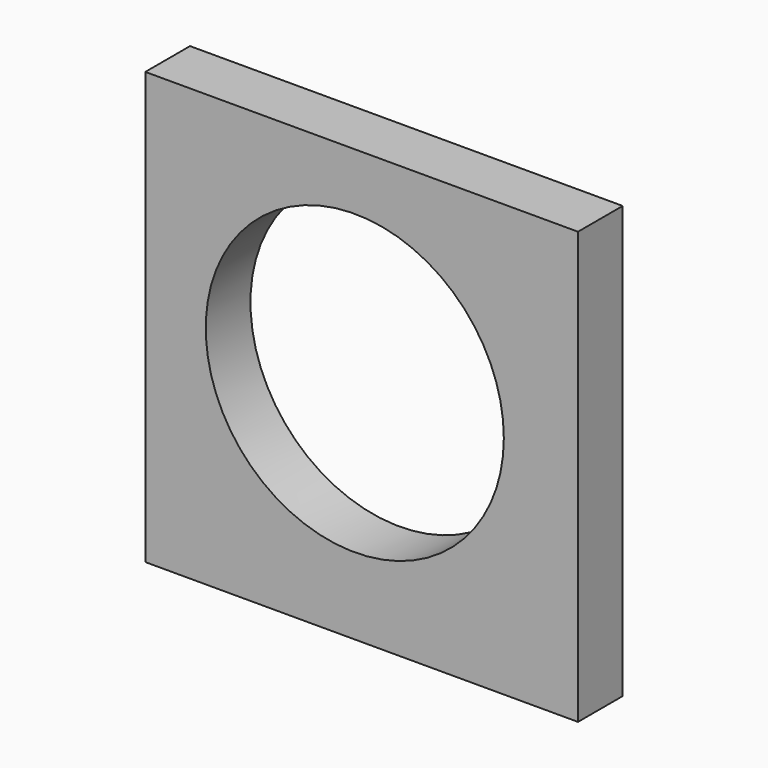
from build123d import *

# Parameters (mm, degrees)
F1_W     = 77.435985
F1_H     = 77.229559
F1_R     = 26.671877
F2_DEPTH = 10


with BuildPart() as f2:
    # F1 (on face) → F2 (new body)
    with BuildSketch(Plane.XZ):
        with Locations((-38.717993, -38.614779)):
            Rectangle(F1_W, F1_H)
        with Locations((-39.945371, -36.837861)):
            Circle(F1_R, mode=Mode.SUBTRACT)
    extrude(amount=F2_DEPTH)


solid = f2.part
